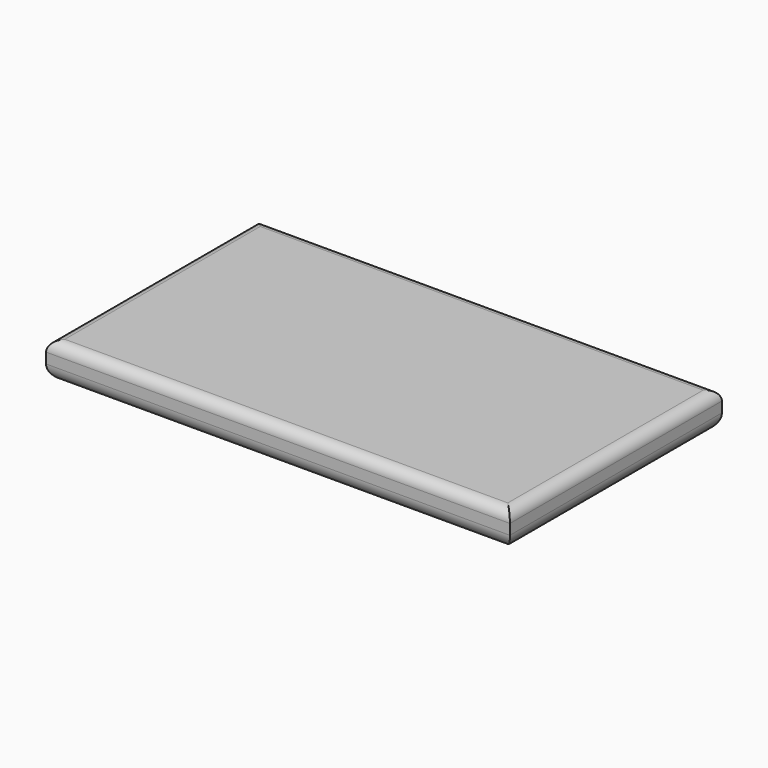
from build123d import *

# Parameters (mm, degrees)
F0_W     = 177.8
F0_H     = 101.6
F1_DEPTH = 14
F2_R     = 4
F3_R     = 6


with BuildPart() as f1:
    # F0 (on Top) → F1 (new body)
    with BuildSketch(Plane.XY):
        with Locations((30.6, -0.2)):
            Rectangle(F0_W, F0_H)
    extrude(amount=F1_DEPTH)

    # F2
    f2_edges = [f1.edges().sort_by_distance(p)[0] for p in [
        (-58.3, -0.2, 14),
        (30.6, 50.6, 14),
        (30.6, -51, 14),
        (119.5, -0.2, 14),
    ]]
    fillet(f2_edges, radius=F2_R)

    # F3
    f3_edges = [f1.edges().sort_by_distance(p)[0] for p in [
        (-58.3, -0.2, 0),
        (30.6, 50.6, 0),
        (30.6, -51, 0),
        (119.5, -0.2, 0),
    ]]
    fillet(f3_edges, radius=F3_R)


solid = f1.part
